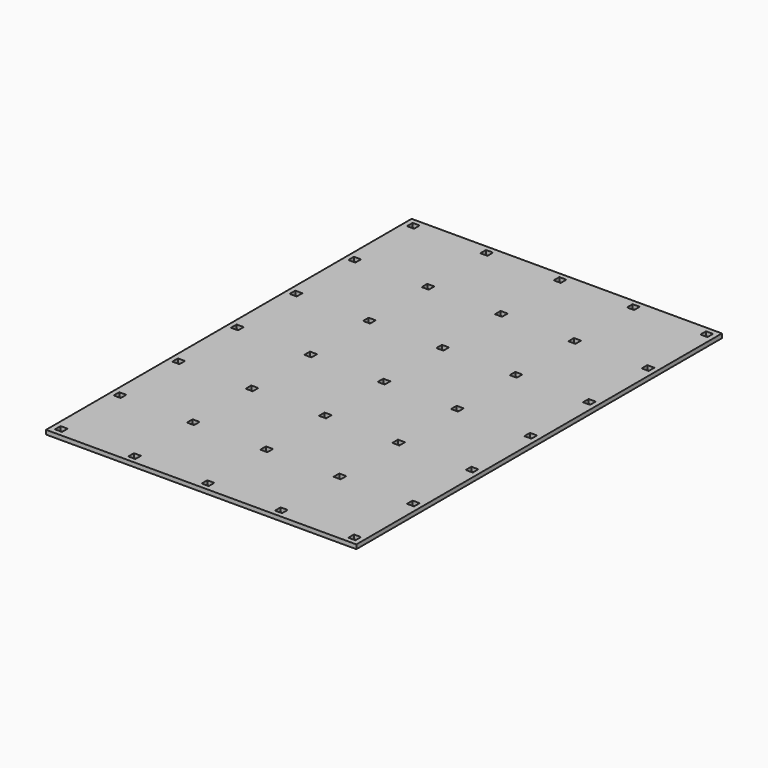
from build123d import *

# Parameters (mm, degrees)
F0_W     = 349.25
F0_H     = 514.35
F0_W_2   = 7.9375
F0_H_2   = 7.9375
F1_DEPTH = 4.7625


with BuildPart() as f1:
    # F0 (on Top) → F1 (new body)
    with BuildSketch(Plane.XY):
        with Locations((174.625, 257.175)):
            Rectangle(F0_W, F0_H)
        with Locations((9.525, 9.525)):
            Rectangle(F0_W_2, F0_H_2, mode=Mode.SUBTRACT)
        with Locations((9.525, 92.075)):
            Rectangle(F0_W_2, F0_H_2, mode=Mode.SUBTRACT)
        with Locations((92.075, 9.525)):
            Rectangle(F0_W_2, F0_H_2, mode=Mode.SUBTRACT)
        with Locations((92.075, 92.075)):
            Rectangle(F0_W_2, F0_H_2, mode=Mode.SUBTRACT)
        with Locations((9.525, 174.625)):
            Rectangle(F0_W_2, F0_H_2, mode=Mode.SUBTRACT)
        with Locations((92.075, 174.625)):
            Rectangle(F0_W_2, F0_H_2, mode=Mode.SUBTRACT)
        with Locations((174.625, 9.525)):
            Rectangle(F0_W_2, F0_H_2, mode=Mode.SUBTRACT)
        with Locations((257.175, 9.525)):
            Rectangle(F0_W_2, F0_H_2, mode=Mode.SUBTRACT)
        with Locations((174.625, 92.075)):
            Rectangle(F0_W_2, F0_H_2, mode=Mode.SUBTRACT)
        with Locations((257.175, 92.075)):
            Rectangle(F0_W_2, F0_H_2, mode=Mode.SUBTRACT)
        with Locations((339.725, 9.525)):
            Rectangle(F0_W_2, F0_H_2, mode=Mode.SUBTRACT)
        with Locations((339.725, 92.075)):
            Rectangle(F0_W_2, F0_H_2, mode=Mode.SUBTRACT)
        with Locations((174.625, 174.625)):
            Rectangle(F0_W_2, F0_H_2, mode=Mode.SUBTRACT)
        with Locations((257.175, 174.625)):
            Rectangle(F0_W_2, F0_H_2, mode=Mode.SUBTRACT)
        with Locations((339.725, 174.625)):
            Rectangle(F0_W_2, F0_H_2, mode=Mode.SUBTRACT)
        with Locations((9.525, 257.175)):
            Rectangle(F0_W_2, F0_H_2, mode=Mode.SUBTRACT)
        with Locations((9.525, 339.725)):
            Rectangle(F0_W_2, F0_H_2, mode=Mode.SUBTRACT)
        with Locations((92.075, 257.175)):
            Rectangle(F0_W_2, F0_H_2, mode=Mode.SUBTRACT)
        with Locations((92.075, 339.725)):
            Rectangle(F0_W_2, F0_H_2, mode=Mode.SUBTRACT)
        with Locations((9.525, 422.275)):
            Rectangle(F0_W_2, F0_H_2, mode=Mode.SUBTRACT)
        with Locations((9.525, 504.825)):
            Rectangle(F0_W_2, F0_H_2, mode=Mode.SUBTRACT)
        with Locations((92.075, 422.275)):
            Rectangle(F0_W_2, F0_H_2, mode=Mode.SUBTRACT)
        with Locations((92.075, 504.825)):
            Rectangle(F0_W_2, F0_H_2, mode=Mode.SUBTRACT)
        with Locations((174.625, 257.175)):
            Rectangle(F0_W_2, F0_H_2, mode=Mode.SUBTRACT)
        with Locations((257.175, 257.175)):
            Rectangle(F0_W_2, F0_H_2, mode=Mode.SUBTRACT)
        with Locations((174.625, 339.725)):
            Rectangle(F0_W_2, F0_H_2, mode=Mode.SUBTRACT)
        with Locations((257.175, 339.725)):
            Rectangle(F0_W_2, F0_H_2, mode=Mode.SUBTRACT)
        with Locations((339.725, 257.175)):
            Rectangle(F0_W_2, F0_H_2, mode=Mode.SUBTRACT)
        with Locations((339.725, 339.725)):
            Rectangle(F0_W_2, F0_H_2, mode=Mode.SUBTRACT)
        with Locations((174.625, 422.275)):
            Rectangle(F0_W_2, F0_H_2, mode=Mode.SUBTRACT)
        with Locations((257.175, 422.275)):
            Rectangle(F0_W_2, F0_H_2, mode=Mode.SUBTRACT)
        with Locations((174.625, 504.825)):
            Rectangle(F0_W_2, F0_H_2, mode=Mode.SUBTRACT)
        with Locations((257.175, 504.825)):
            Rectangle(F0_W_2, F0_H_2, mode=Mode.SUBTRACT)
        with Locations((339.725, 422.275)):
            Rectangle(F0_W_2, F0_H_2, mode=Mode.SUBTRACT)
        with Locations((339.725, 504.825)):
            Rectangle(F0_W_2, F0_H_2, mode=Mode.SUBTRACT)
    extrude(amount=F1_DEPTH)


solid = f1.part
